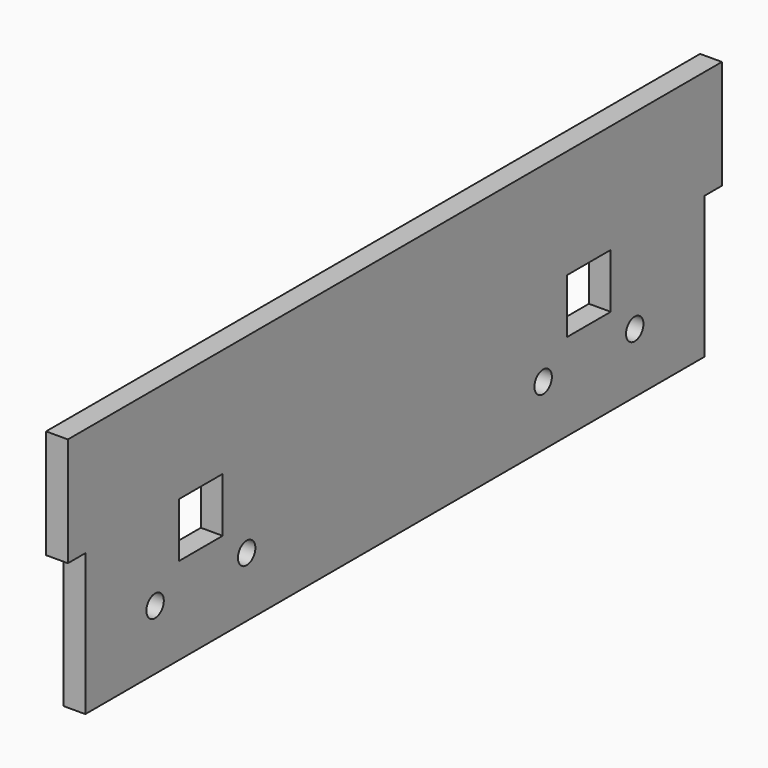
from build123d import *

# Parameters (mm, degrees)
SKETCH_W        = 150
SKETCH_H        = 46
PAD_DEPTH       = 4
SKETCH001_W     = 4
SKETCH001_H     = 26
POCKET_DEPTH    = 5
SKETCH002_R     = 2
SKETCH002_W     = 10
SKETCH002_H     = 10
POCKET001_DEPTH = 5


with BuildPart() as part:
    # Sketch → Pad (new body)
    with BuildSketch(Plane.YZ):
        with Locations((75, 23)):
            Rectangle(SKETCH_W, SKETCH_H)
    extrude(amount=PAD_DEPTH)

    # Sketch001 (on Face6 of Pad) → Pocket (cut)
    with BuildSketch(Plane.YZ.offset(4)):
        with Locations((2, 13)):
            Rectangle(SKETCH001_W, SKETCH001_H)
        with Locations((148, 13)):
            Rectangle(SKETCH001_W, SKETCH001_H)
    extrude(amount=-POCKET_DEPTH, mode=Mode.SUBTRACT)

    # Sketch002 (on Face4 of Pocket) → Pocket001 (cut)
    with BuildSketch(Plane.YZ.offset(4)):
        with Locations((20, 11)):
            Circle(SKETCH002_R)
        with Locations((41, 11)):
            Circle(SKETCH002_R)
        with Locations((109, 11)):
            Circle(SKETCH002_R)
        with Locations((130, 11)):
            Circle(SKETCH002_R)
        with Locations((30.5, 21)):
            Rectangle(SKETCH002_W, SKETCH002_H)
        with Locations((119.5, 21)):
            Rectangle(SKETCH002_W, SKETCH002_H)
    extrude(amount=-POCKET001_DEPTH, mode=Mode.SUBTRACT)


solid = part.part
